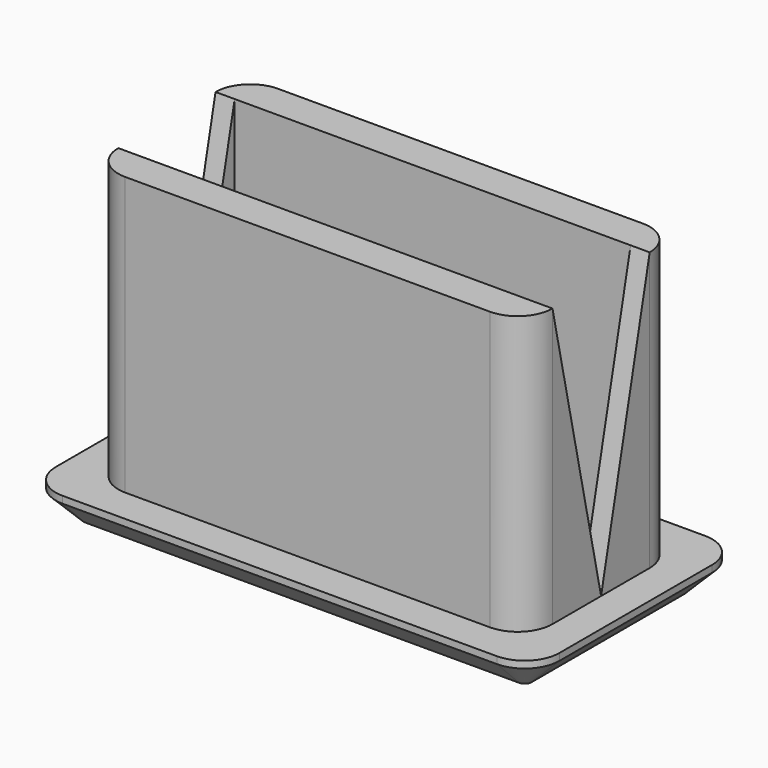
from build123d import *

# Parameters (mm, degrees)
F0_W     = 12.5
F0_H     = 5.5
F0_W_2   = 11.4
F0_H_2   = 3.5
F1_DEPTH = 8
F0_W_3   = 14.5
F0_H_3   = 7.5
F2_DEPTH = 1
F3_R     = 1
F5_DEPTH = 25
F6_SIZE  = 0.8


with BuildPart() as f1:
    # F0 (on Top) → F1 (new body)
    with BuildSketch(Plane.XY):
        with Locations((-11.856854585, 4.7651143782)):
            Rectangle(F0_W, F0_H)
        with Locations((-11.856854585, 4.7651143782)):
            Rectangle(F0_W_2, F0_H_2, mode=Mode.SUBTRACT)
    extrude(amount=F1_DEPTH)

    # F0 (on Top) → F2 (join)
    with BuildSketch(Plane.XY):
        with Locations((-11.856854585, 4.7651143782)):
            Rectangle(F0_W_3, F0_H_3)
        with Locations((-11.856854585, 4.7651143782)):
            Rectangle(F0_W, F0_H, mode=Mode.SUBTRACT)
        with Locations((-11.856854585, 4.7651143782)):
            Rectangle(F0_W, F0_H)
        with Locations((-11.856854585, 4.7651143782)):
            Rectangle(F0_W_2, F0_H_2, mode=Mode.SUBTRACT)
        with Locations((-11.856854585, 4.7651143782)):
            Rectangle(F0_W_2, F0_H_2)
    extrude(amount=-F2_DEPTH)

    # F3
    f3_edges = [f1.edges().sort_by_distance(p)[0] for p in [
        (-18.106855, 2.015114, 4),
        (-5.606855, 2.015114, 4),
        (-18.106855, 7.515114, 4),
        (-5.606855, 7.515114, 4),
        (-19.106855, 1.015114, -0.5),
        (-4.606855, 1.015114, -0.5),
        (-19.106855, 8.515114, -0.5),
        (-4.606855, 8.515114, -0.5),
    ]]
    fillet(f3_edges, radius=F3_R)

    # F4 (on face) → F5 (cut)
    with BuildSketch(Plane.YZ.offset(-5.606854585)):
        Polygon((6.5151143782, 8), (3.0151143782, 8), (4.7651143782, 0), align=None)
    extrude(amount=-F5_DEPTH, mode=Mode.SUBTRACT)

    # F6
    f6_edges = [f1.edges().sort_by_distance(p)[0] for p in [
        (-11.856855, 1.015114, -1),
        (-18.813961, 1.308008, -1),
        (-4.899748, 1.308008, -1),
        (-4.606855, 4.765114, -1),
        (-4.899748, 8.222221, -1),
        (-11.856855, 8.515114, -1),
        (-19.106855, 4.765114, -1),
        (-18.813961, 8.222221, -1),
    ]]
    chamfer(f6_edges, length=F6_SIZE)


solid = f1.part
